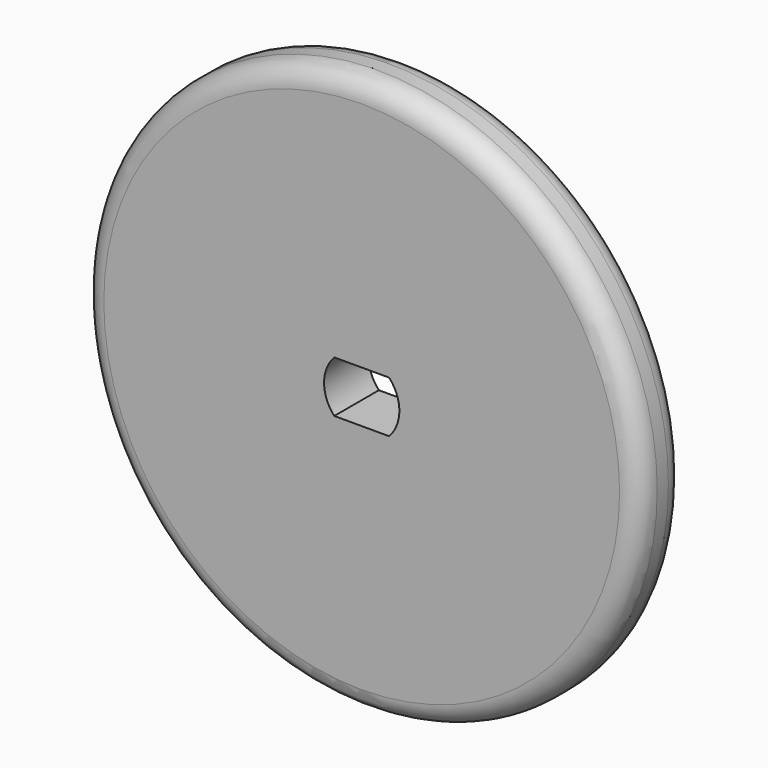
from build123d import *

# Parameters (mm, degrees)
SKETCH_R     = 20
PAD_DEPTH    = 4
FILLET_R     = 1.5
POCKET_DEPTH = 4.001


with BuildPart() as part:
    # Sketch → Pad (new body)
    with BuildSketch(Plane.XZ):
        Circle(SKETCH_R)
    extrude(amount=PAD_DEPTH)

    # Fillet
    fillet_edges = [part.edges().sort_by_distance(p)[0] for p in [
        (-20, -4, 0),
        (-20, 0, 0),
    ]]
    fillet(fillet_edges, radius=FILLET_R)

    # Sketch001 (on Face5 of Fillet) → Pocket (cut, through all)
    with BuildSketch(Plane.XZ.offset(4)):
        with BuildLine():
            ThreePointArc((-1.966596, 1.85), (-2.7, 0), (-1.966596, -1.85))
            Line((-1.966596, -1.85), (1.966596, -1.85))
            ThreePointArc((1.966596, -1.85), (2.7, 0), (1.966596, 1.85))
            Line((-1.966596, 1.85), (1.966596, 1.85))
        make_face()
    extrude(amount=-POCKET_DEPTH, mode=Mode.SUBTRACT)


solid = part.part
